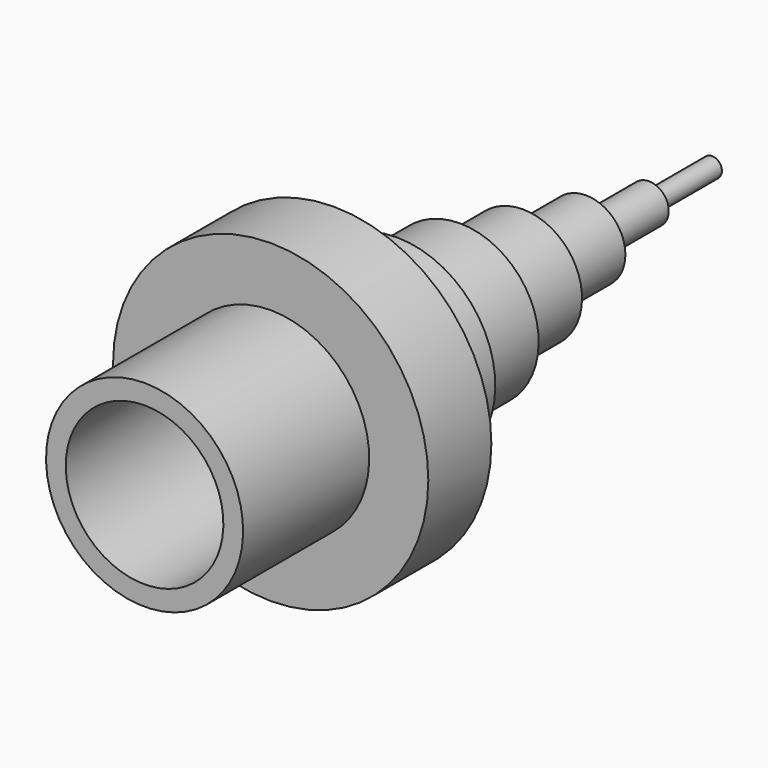
from build123d import *

# Parameters (mm, degrees)
F0_W   = 40
F0_H   = 5
F0_W_2 = 20
F0_H_2 = 2.5


with BuildPart() as f1:
    # F0 (on Right) → F1 (revolve)
    with BuildSketch(Plane.YZ):
        with Locations((-80, 22.5)):
            Rectangle(F0_W, F0_H)
        Polygon((-60, 20), (-60, 0), (-40, 0), (-40, 25), (-40, 40), (-60, 40), (-60, 25), align=None)
        Polygon((-40, 25), (-40, 0), (-20, 0), (-20, 20), (-20, 25), align=None)
        Polygon((-20, 20), (-20, 0), (0, 0), (0, 15), (0, 20), align=None)
        Polygon((0, 15), (0, 0), (20, 0), (20, 10), (20, 15), align=None)
        Polygon((20, 10), (20, 0), (40, 0), (40, 5), (40, 10), align=None)
        Polygon((40, 5), (40, 0), (60, 0), (60, 2.5), (60, 5), align=None)
        with Locations((70, 1.25)):
            Rectangle(F0_W_2, F0_H_2)
    revolve(axis=Axis((0, -30, 0), (0, 1, 0)))


solid = f1.part
